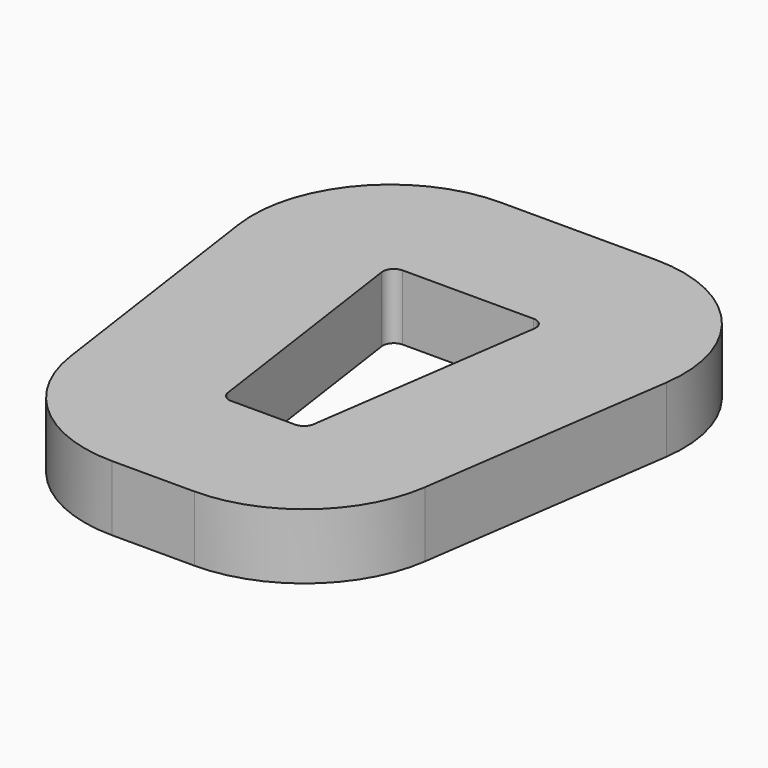
from build123d import *

# Parameters (mm, degrees)
PAD_DEPTH = 14.8


with BuildPart() as part:
    # Sketch → Pad (new body)
    with BuildSketch(Plane.XY):
        with BuildLine():
            Line((0, 89.13), (14.815, 89.13))
            ThreePointArc((17.289752, 86.275597), (16.703916, 88.26768), (14.815, 89.13))
            Line((17.289752, 86.275597), (9.699752, 33.275597))
            ThreePointArc((7.225, 31.13), (8.86268, 31.741084), (9.699752, 33.275597))
            Line((7.225, 31.13), (0, 31.13))
            Line((0, 31.13), (0, 0))
            Line((9.315394, 0), (0, 0))
            ThreePointArc((9.315394, 0), (29.707786, 7.609217), (40.131008, 26.716971))
            Line((48.437046, 84.716971), (40.131008, 26.716971))
            ThreePointArc((48.437046, 84.716971), (41.142215, 109.522392), (17.621432, 120.26))
            Line((0, 120.26), (17.621432, 120.26))
            Line((0, 120.26), (0, 89.13))
        make_face()
    pad = extrude(amount=PAD_DEPTH)

    # Mirrored: Pad across Sketch V_Axis
    add(pad.mirror(Plane(origin=(0, 0, 0), x_dir=(0, 0, 1), z_dir=(1, 0, 0))))


solid = part.part
